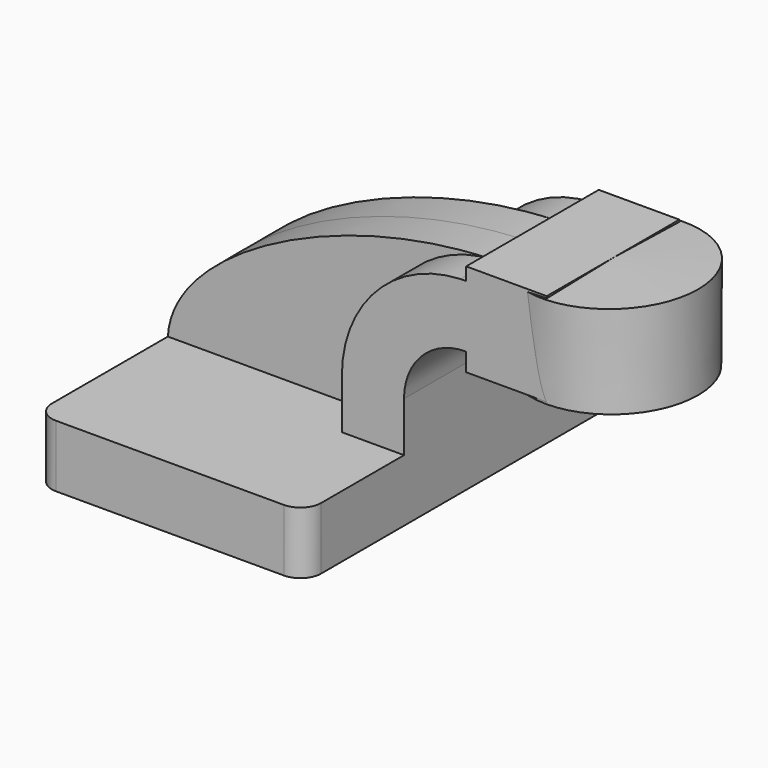
from build123d import *

# Parameters (mm, degrees)
F1_DEPTH = 63.5
F2_DEPTH = 25.4
F3_DEPTH = 12.7
F5_R     = 6.35


with BuildPart() as f1:
    # F0 (on Front) → F1 (new body, symmetric)
    with BuildSketch(Plane.XZ):
        Polygon((22.225, 9.525), (-41.275, 9.525), (-41.275, -9.525), (41.275, -9.525), (41.275, 9.525), align=None)
    extrude(amount=F1_DEPTH, both=True)

    # F0 (on Front) → F2 (join, symmetric)
    with BuildSketch(Plane.XZ):
        with BuildLine():
            Line((22.225, 24.7660442862), (22.225, 9.525))
            Line((22.225, 9.525), (41.275, 9.525))
            Line((41.275, 9.525), (41.275, 24.7660442862))
            ThreePointArc((41.275, 24.7660442862), (46.8632744023, 38.1864149015), (60.325, 43.6743199825))
            Line((60.325, 43.6743199825), (60.325, 62.7245845587))
            add(Edge.make_bspline(
                [(58.6218546558, 62.6926976316), (59.1901148173, 62.7069385572), (59.7578604016, 62.7175822247), (60.325, 62.7245845587)],
                knots=[113.3285433614, 113.3285433614, 113.3285433614, 113.3285433614, 114.6854646292, 114.6854646292, 114.6854646292, 114.6854646292], degree=3))
            ThreePointArc((58.6218546558, 62.6926976316), (32.7962107912, 51.0489382613), (22.225, 24.7660442862))
        make_face()
        Polygon((60.325, 66.675), (60.325, 62.7245845587), (60.325, 43.6743199825), (85.5901753482, 43.6743199825), (85.0338637829, 66.675), align=None)
        Polygon((85.5901753482, 43.6743199825), (60.325, 43.6743199825), (60.325, 38.1), (85.725, 38.1), align=None)
    extrude(amount=F2_DEPTH, both=True)

    # F0 (on Front) → F3 (join, symmetric)
    with BuildSketch(Plane.XZ):
        with BuildLine():
            add(Edge.make_bspline(
                [(-41.275, 9.525), (-39.8884323403, 35.2216003411), (11.1614029089, 61.5033114907), (58.6218546558, 62.6926976316)],
                knots=[0, 0, 0, 0, 113.3285433614, 113.3285433614, 113.3285433614, 113.3285433614], degree=3))
            Line((-41.275, 9.525), (22.225, 9.525))
            Line((22.225, 9.525), (22.225, 24.7660442862))
            ThreePointArc((22.225, 24.7660442862), (32.7962107912, 51.0489382613), (58.6218546558, 62.6926976316))
        make_face()
    extrude(amount=F3_DEPTH, both=True)

    # F0 (on Front) → F4 (revolve)
    with BuildSketch(Plane.XZ):
        Polygon((85.0338637829, 66.675), (85.5901753482, 43.6743199825), (85.725, 38.1), (111.125, 38.1), (111.125, 66.675), align=None)
    revolve(axis=Axis((85.3794318914, 0, 52.3875), (-0.0241796728, 0, 0.999707629)))

    # F5
    f5_edges = [f1.edges().sort_by_distance(p)[0] for p in [
        (-41.275, -63.5, 0),
        (41.275, -63.5, 0),
        (-41.275, 63.5, 0),
        (41.275, 63.5, 0),
    ]]
    fillet(f5_edges, radius=F5_R)


solid = f1.part
